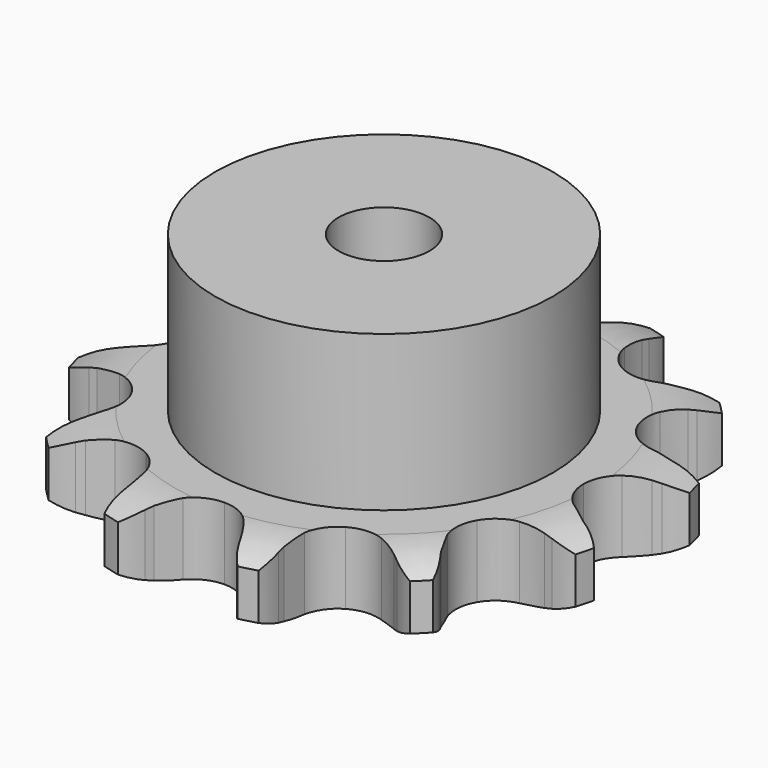
from build123d import *

# Parameters (mm, degrees)
PAD_DEPTH         = 11.1
SKETCH001_R       = 26
PAD001_DEPTH      = 35
SKETCH002_R       = 7
POCKET_DEPTH      = 0.001
POCKET_DEPTH_BACK = -35.001


with BuildPart() as part:
    # Sprocket → Pad (new body)
    with BuildSketch(Plane.XY):
        with BuildLine():
            ThreePointArc((-11.01919, 41.124178), (-8.830268, 39.328393), (-7.220259, 36.999424))
            Line((-7.220259, 36.999424), (-6.686077, 35.935781))
            ThreePointArc((-6.686077, 35.935781), (-5.769757, 34.348668), (-4.67538, 32.878664))
            ThreePointArc((-4.67538, 32.878664), (-2.579355, 31.270328), (0, 30.698499))
            ThreePointArc((0, 30.698499), (2.579355, 31.270328), (4.67538, 32.878664))
            ThreePointArc((4.67538, 32.878664), (5.769757, 34.348668), (6.686077, 35.935781))
            Line((6.686077, 35.935781), (7.220259, 36.999424))
            ThreePointArc((7.220259, 36.999424), (8.830268, 39.328393), (11.01919, 41.124178))
            ThreePointArc((11.01919, 41.124178), (12.01696, 38.474521), (12.246784, 35.65257))
            Line((12.246784, 35.65257), (12.177578, 34.464338))
            ThreePointArc((12.177578, 34.464338), (12.177578, 32.631698), (12.390334, 30.811449))
            ThreePointArc((12.390334, 30.811449), (13.401377, 28.370576), (15.349249, 26.58568))
            ThreePointArc((15.349249, 26.58568), (17.868952, 25.791221), (20.48833, 26.136069))
            Line((20.48833, 26.136069), (23.758204, 27.778261))
            ThreePointArc((23.758204, 27.778261), (24.249244, 28.114678), (24.752639, 28.432312))
            ThreePointArc((24.752639, 28.432312), (27.311433, 29.644253), (30.104988, 30.104988))
            ThreePointArc((30.104988, 30.104988), (29.644253, 27.311433), (28.432312, 24.752639))
            Line((28.432312, 24.752639), (27.778261, 23.758204))
            ThreePointArc((27.778261, 23.758204), (26.861941, 22.17109), (26.136069, 20.48833))
            ThreePointArc((26.136069, 20.48833), (25.791221, 17.868952), (26.58568, 15.349249))
            ThreePointArc((26.58568, 15.349249), (28.370576, 13.401377), (30.811449, 12.390334))
            Line((30.811449, 12.390334), (34.464338, 12.177578))
            ThreePointArc((34.464338, 12.177578), (35.057801, 12.223403), (35.65257, 12.246784))
            ThreePointArc((35.65257, 12.246784), (38.474521, 12.01696), (41.124178, 11.01919))
            ThreePointArc((41.124178, 11.01919), (39.328393, 8.830268), (36.999424, 7.220259))
            Line((36.999424, 7.220259), (35.935781, 6.686077))
            ThreePointArc((35.935781, 6.686077), (34.348668, 5.769757), (32.878664, 4.67538))
            ThreePointArc((32.878664, 4.67538), (31.270328, 2.579355), (30.698499, 0))
            ThreePointArc((30.698499, 0), (31.270328, -2.579355), (32.878664, -4.67538))
            Line((32.878664, -4.67538), (35.935781, -6.686077))
            ThreePointArc((35.935781, -6.686077), (36.472648, -6.943123), (36.999424, -7.220259))
            ThreePointArc((36.999424, -7.220259), (39.328393, -8.830268), (41.124178, -11.01919))
            ThreePointArc((41.124178, -11.01919), (38.474521, -12.01696), (35.65257, -12.246784))
            Line((35.65257, -12.246784), (34.464338, -12.177578))
            ThreePointArc((34.464338, -12.177578), (32.631698, -12.177578), (30.811449, -12.390334))
            ThreePointArc((30.811449, -12.390334), (28.370576, -13.401377), (26.58568, -15.349249))
            ThreePointArc((26.58568, -15.349249), (25.791221, -17.868952), (26.136069, -20.48833))
            Line((26.136069, -20.48833), (27.778261, -23.758204))
            ThreePointArc((27.778261, -23.758204), (28.114678, -24.249244), (28.432312, -24.752639))
            ThreePointArc((28.432312, -24.752639), (29.644253, -27.311433), (30.104988, -30.104988))
            ThreePointArc((30.104988, -30.104988), (27.311433, -29.644253), (24.752639, -28.432312))
            Line((24.752639, -28.432312), (23.758204, -27.778261))
            ThreePointArc((23.758204, -27.778261), (22.17109, -26.861941), (20.48833, -26.136069))
            ThreePointArc((20.48833, -26.136069), (17.868952, -25.791221), (15.349249, -26.58568))
            ThreePointArc((15.349249, -26.58568), (13.401377, -28.370576), (12.390334, -30.811449))
            Line((12.390334, -30.811449), (12.177578, -34.464338))
            ThreePointArc((12.177578, -34.464338), (12.223403, -35.057801), (12.246784, -35.65257))
            ThreePointArc((12.246784, -35.65257), (12.01696, -38.474521), (11.01919, -41.124178))
            ThreePointArc((11.01919, -41.124178), (8.830268, -39.328393), (7.220259, -36.999424))
            Line((7.220259, -36.999424), (6.686077, -35.935781))
            ThreePointArc((6.686077, -35.935781), (5.769757, -34.348668), (4.67538, -32.878664))
            ThreePointArc((4.67538, -32.878664), (2.579355, -31.270328), (0, -30.698499))
            ThreePointArc((0, -30.698499), (-2.579355, -31.270328), (-4.67538, -32.878664))
            Line((-4.67538, -32.878664), (-6.686077, -35.935781))
            ThreePointArc((-6.686077, -35.935781), (-6.943123, -36.472648), (-7.220259, -36.999424))
            ThreePointArc((-7.220259, -36.999424), (-8.830268, -39.328393), (-11.01919, -41.124178))
            ThreePointArc((-11.01919, -41.124178), (-12.01696, -38.474521), (-12.246784, -35.65257))
            Line((-12.246784, -35.65257), (-12.177578, -34.464338))
            ThreePointArc((-12.177578, -34.464338), (-12.177578, -32.631698), (-12.390334, -30.811449))
            ThreePointArc((-12.390334, -30.811449), (-13.401377, -28.370576), (-15.349249, -26.58568))
            ThreePointArc((-15.349249, -26.58568), (-17.868952, -25.791221), (-20.48833, -26.136069))
            Line((-20.48833, -26.136069), (-23.758204, -27.778261))
            ThreePointArc((-23.758204, -27.778261), (-24.249244, -28.114678), (-24.752639, -28.432312))
            ThreePointArc((-24.752639, -28.432312), (-27.311433, -29.644253), (-30.104988, -30.104988))
            ThreePointArc((-30.104988, -30.104988), (-29.644253, -27.311433), (-28.432312, -24.752639))
            Line((-28.432312, -24.752639), (-27.778261, -23.758204))
            ThreePointArc((-27.778261, -23.758204), (-26.861941, -22.17109), (-26.136069, -20.48833))
            ThreePointArc((-26.136069, -20.48833), (-25.791221, -17.868952), (-26.58568, -15.349249))
            ThreePointArc((-26.58568, -15.349249), (-28.370576, -13.401377), (-30.811449, -12.390334))
            Line((-30.811449, -12.390334), (-34.464338, -12.177578))
            ThreePointArc((-34.464338, -12.177578), (-35.057801, -12.223403), (-35.65257, -12.246784))
            ThreePointArc((-35.65257, -12.246784), (-38.474521, -12.01696), (-41.124178, -11.01919))
            ThreePointArc((-41.124178, -11.01919), (-39.328393, -8.830268), (-36.999424, -7.220259))
            Line((-36.999424, -7.220259), (-35.935781, -6.686077))
            ThreePointArc((-35.935781, -6.686077), (-34.348668, -5.769757), (-32.878664, -4.67538))
            ThreePointArc((-32.878664, -4.67538), (-31.270328, -2.579355), (-30.698499, 0))
            ThreePointArc((-30.698499, 0), (-31.270328, 2.579355), (-32.878664, 4.67538))
            Line((-32.878664, 4.67538), (-35.935781, 6.686077))
            ThreePointArc((-35.935781, 6.686077), (-36.472648, 6.943123), (-36.999424, 7.220259))
            ThreePointArc((-36.999424, 7.220259), (-39.328393, 8.830268), (-41.124178, 11.01919))
            ThreePointArc((-41.124178, 11.01919), (-38.474521, 12.01696), (-35.65257, 12.246784))
            Line((-35.65257, 12.246784), (-34.464338, 12.177578))
            ThreePointArc((-34.464338, 12.177578), (-32.631698, 12.177578), (-30.811449, 12.390334))
            ThreePointArc((-30.811449, 12.390334), (-28.370576, 13.401377), (-26.58568, 15.349249))
            ThreePointArc((-26.58568, 15.349249), (-25.791221, 17.868952), (-26.136069, 20.48833))
            Line((-26.136069, 20.48833), (-27.778261, 23.758204))
            ThreePointArc((-27.778261, 23.758204), (-28.114678, 24.249244), (-28.432312, 24.752639))
            ThreePointArc((-28.432312, 24.752639), (-29.644253, 27.311433), (-30.104988, 30.104988))
            ThreePointArc((-30.104988, 30.104988), (-27.311433, 29.644253), (-24.752639, 28.432312))
            Line((-24.752639, 28.432312), (-23.758204, 27.778261))
            ThreePointArc((-23.758204, 27.778261), (-22.17109, 26.861941), (-20.48833, 26.136069))
            ThreePointArc((-20.48833, 26.136069), (-17.868952, 25.791221), (-15.349249, 26.58568))
            ThreePointArc((-15.349249, 26.58568), (-13.401377, 28.370576), (-12.390334, 30.811449))
            Line((-12.390334, 30.811449), (-12.177578, 34.464338))
            ThreePointArc((-12.177578, 34.464338), (-12.223403, 35.057801), (-12.246784, 35.65257))
            ThreePointArc((-12.246784, 35.65257), (-12.01696, 38.474521), (-11.01919, 41.124178))
        make_face()
    extrude(amount=PAD_DEPTH)

    # Sketch → Groove (revolve, cut)
    with BuildSketch(Plane.XZ):
        with BuildLine():
            Line((32.264719, 0), (40.75, 0))
            Line((49.235281, 0), (40.75, 0))
            Line((49.235281, 11.1), (49.235281, 0))
            Line((40.75, 11.1), (49.235281, 11.1))
            Line((32.264719, 11.1), (40.75, 11.1))
            ThreePointArc((40.75, 9.1), (36.623618, 10.593242), (32.264719, 11.1))
            Line((40.75, 2), (40.75, 9.1))
            ThreePointArc((32.264719, 0), (36.623618, 0.506758), (40.75, 2))
        make_face()
    revolve(axis=Axis((0, 0, 0), (0, 0, 1)), mode=Mode.SUBTRACT)

    # Sketch001 → Pad001 (join)
    with BuildSketch(Plane.XY):
        Circle(SKETCH001_R)
    extrude(amount=PAD001_DEPTH)

    # Sketch002 → Pocket (cut, two sides)
    with BuildSketch(Plane.XY) as pocket_sk:
        Circle(SKETCH002_R)
    extrude(amount=-POCKET_DEPTH, mode=Mode.SUBTRACT)
    extrude(pocket_sk.sketch, amount=-POCKET_DEPTH_BACK, mode=Mode.SUBTRACT)


solid = part.part
